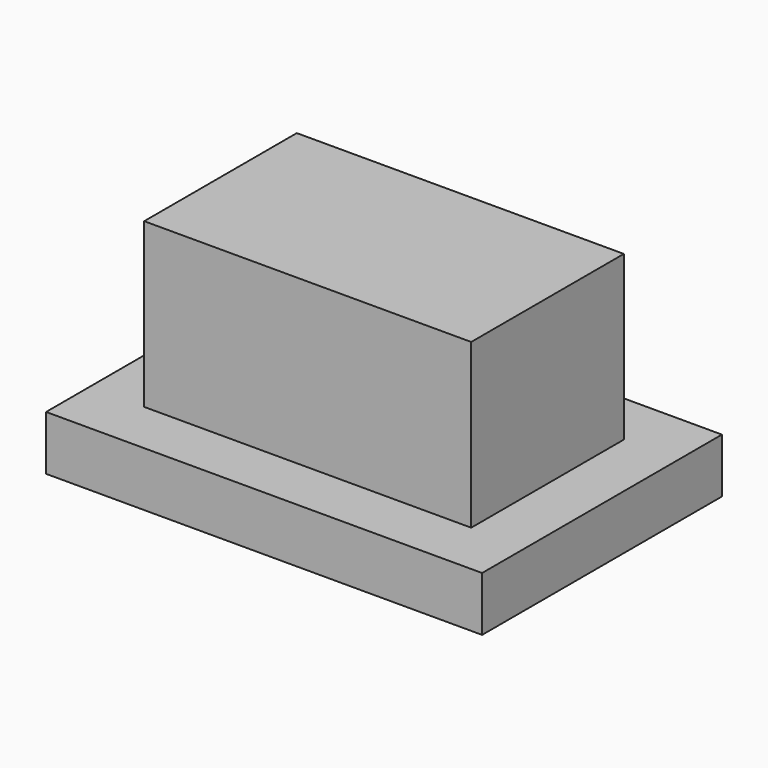
from build123d import *

# Parameters (mm, degrees)
BOX017_W     = 3
BOX017_H     = 1.5
BOX017_DEPTH = 2
BOX016_W     = 8
BOX016_H     = 5.5
BOX016_DEPTH = 1
BOX015_W     = 6
BOX015_H     = 3.5
BOX015_DEPTH = 3


with BuildPart() as cube015:
    # Box017 → Box017 (new body)
    with BuildSketch(Plane(origin=(23.5, 13, 10), x_dir=(1, 0, 0), z_dir=(0, 0, 1))):
        with Locations((1.5, 0.75)):
            Rectangle(BOX017_W, BOX017_H)
    extrude(amount=BOX017_DEPTH)


with BuildPart() as cube014:
    # Box016 → Box016 (new body)
    with BuildSketch(Plane(origin=(21, 11, 10), x_dir=(1, 0, 0), z_dir=(0, 0, 1))):
        with Locations((4, 2.75)):
            Rectangle(BOX016_W, BOX016_H)
    extrude(amount=BOX016_DEPTH)


with BuildPart() as obj1:
    # Box015 → Box015 (new body)
    with BuildSketch(Plane(origin=(22, 12, 11), x_dir=(1, 0, 0), z_dir=(0, 0, 1))):
        with Locations((3, 1.75)):
            Rectangle(BOX015_W, BOX015_H)
    extrude(amount=BOX015_DEPTH)

    # Fusion004: union Cube014
    add(cube014.part)

    # Cut004: cut Cube015
    add(cube015.part, mode=Mode.SUBTRACT)


solid = obj1.part
